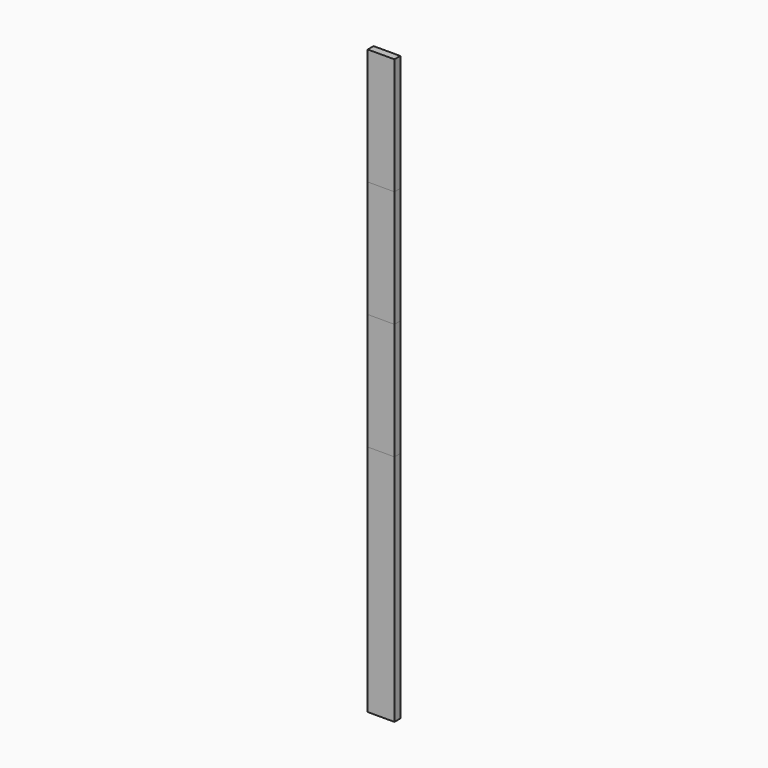
from build123d import *

# Parameters (mm, degrees)
F0_W     = 139.7
F0_H     = 38.1
F1_DEPTH = 3048
F2_DEPTH = 2438.4
F3_DEPTH = 1828.8
F4_DEPTH = 1219.2


with BuildPart() as f1:
    # F0 (on Top) → F1 (new body)
    with BuildSketch(Plane.XY):
        Rectangle(F0_W, F0_H)
    extrude(amount=F1_DEPTH)


with BuildPart() as f2:
    # F0 (on Top) → F2 (new body)
    with BuildSketch(Plane.XY):
        Rectangle(F0_W, F0_H)
    extrude(amount=F2_DEPTH)


with BuildPart() as f3:
    # F0 (on Top) → F3 (new body)
    with BuildSketch(Plane.XY):
        Rectangle(F0_W, F0_H)
    extrude(amount=F3_DEPTH)


with BuildPart() as f4:
    # F0 (on Top) → F4 (new body)
    with BuildSketch(Plane.XY):
        Rectangle(F0_W, F0_H)
    extrude(amount=F4_DEPTH)


solid = Compound([f1.part, f2.part, f3.part, f4.part])
